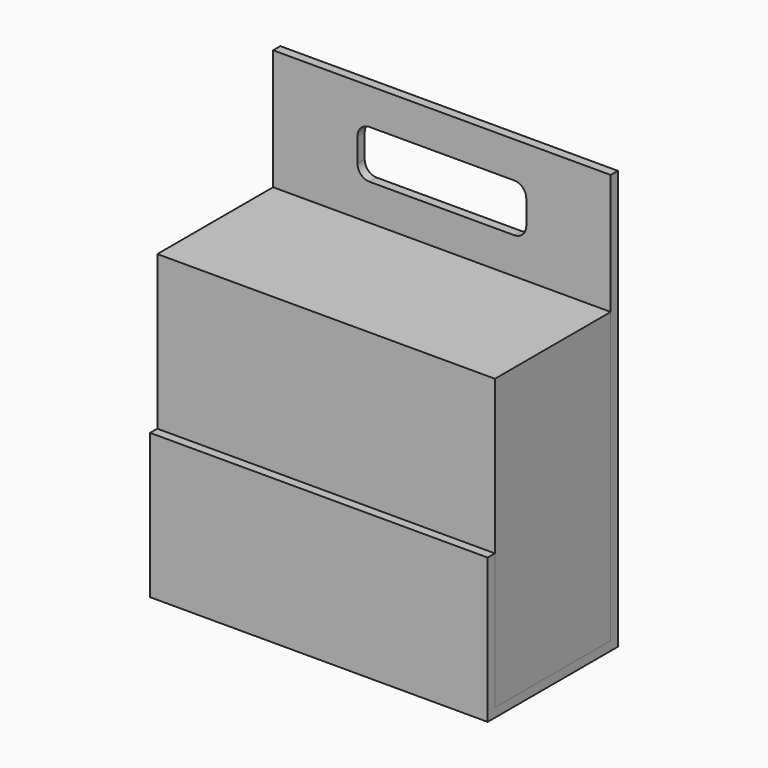
from build123d import *

# Parameters (mm, degrees)
F1_DEPTH      = 88.9
F1_DEPTH_BACK = 88.9
F2_DEPTH      = 88.9
F2_DEPTH_BACK = 88.9
F4_DEPTH      = 25.4


with BuildPart() as f1:
    # F0 (on Right) → F1 (new body, two sides)
    with BuildSketch(Plane.YZ) as f1_sk:
        Polygon((0, 71.4375), (0, 0), (76.2, 0), (76.2, 152.4), (0, 152.4), align=None)
    extrude(amount=F1_DEPTH)
    extrude(f1_sk.sketch, amount=-F1_DEPTH_BACK)


with BuildPart() as f2:
    # F0 (on Right) → F2 (new body, two sides)
    with BuildSketch(Plane.YZ) as f2_sk:
        Polygon((76.2, 0), (0, 0), (0, 71.4375), (-4.7625, 71.4375), (-4.7625, -4.7625), (80.9625, -4.7625), (80.9625, 215.9), (76.2, 215.9), (76.2, 152.4), align=None)
    extrude(amount=F2_DEPTH)
    extrude(f2_sk.sketch, amount=-F2_DEPTH_BACK)

    # F3 (on face) → F4 (cut)
    with BuildSketch(Plane.XZ.offset(-76.2)):
        with BuildLine():
            ThreePointArc((44.45, 190.5), (42.590128, 194.990128), (38.1, 196.85))
            Line((38.1, 196.85), (-38.1, 196.85))
            ThreePointArc((-38.1, 196.85), (-42.590128, 194.990128), (-44.45, 190.5))
            Line((-44.45, 190.5), (-44.45, 177.8))
            ThreePointArc((-44.45, 177.8), (-42.590128, 173.309872), (-38.1, 171.45))
            Line((-38.1, 171.45), (38.1, 171.45))
            ThreePointArc((38.1, 171.45), (42.590128, 173.309872), (44.45, 177.8))
            Line((44.45, 177.8), (44.45, 190.5))
        make_face()
    extrude(amount=-F4_DEPTH, mode=Mode.SUBTRACT)


solid = Compound([f1.part, f2.part])
